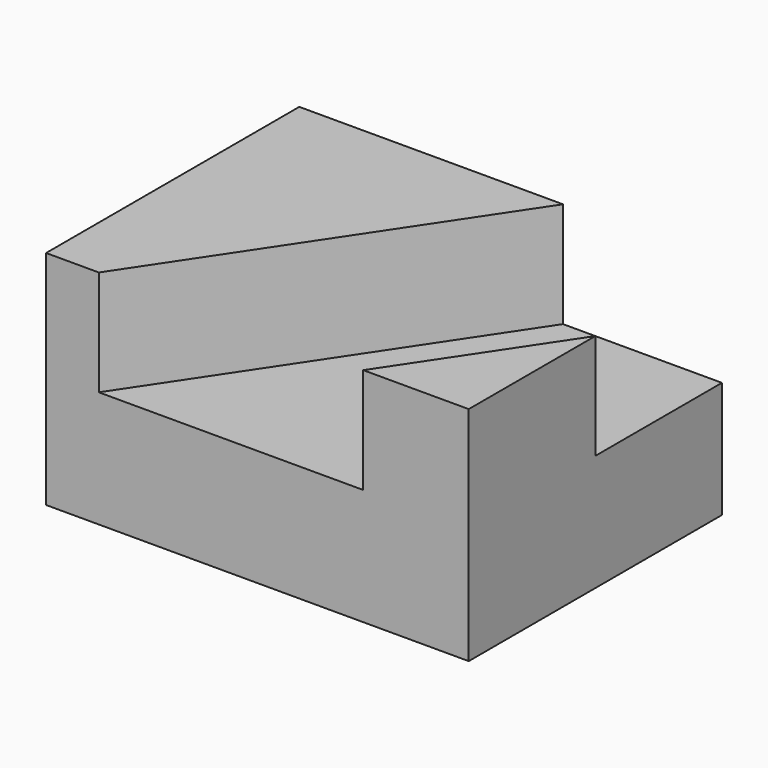
from build123d import *

# Parameters (mm, degrees)
F0_W     = 50.882496
F0_H     = 26.710287
F1_DEPTH = 38.1
F3_DEPTH = 12.7


with BuildPart() as f1:
    # F0 (on Front) → F1 (new body)
    with BuildSketch(Plane.XZ):
        with Locations((25.441248, 13.355143)):
            Rectangle(F0_W, F0_H)
    extrude(amount=-F1_DEPTH)

    # F2 (on face) → F3 (cut)
    with BuildSketch(Plane.XY.offset(26.710287)):
        Polygon((31.75, 38.1), (6.35, 0), (38.182496, 0), (50.882496, 19.05), (50.882496, 38.1), align=None)
    extrude(amount=-F3_DEPTH, mode=Mode.SUBTRACT)


solid = f1.part
